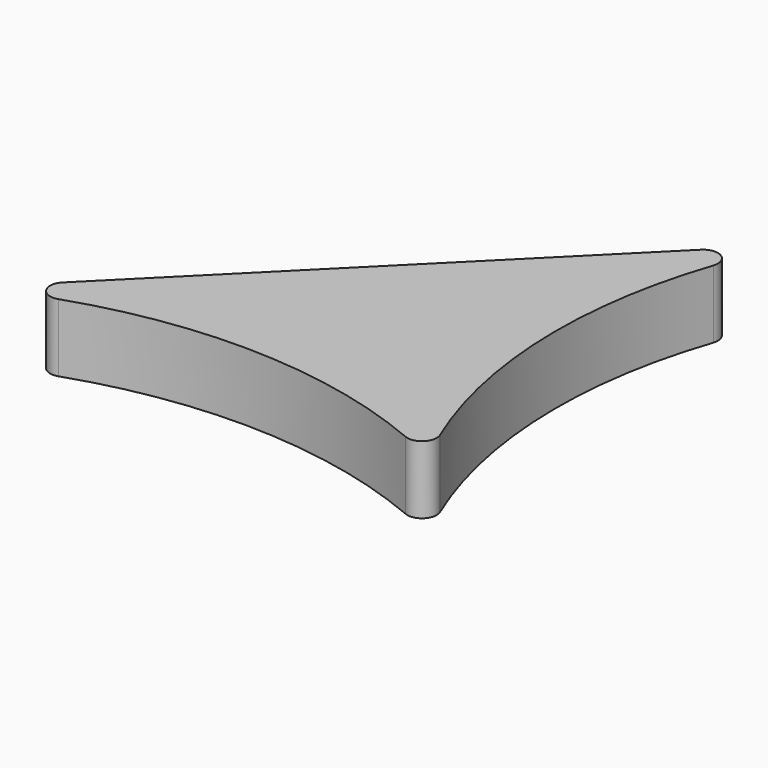
from build123d import *

# Parameters (mm, degrees)
F1_DEPTH = 5
F2_R     = 1.074979


with BuildPart() as f1:
    # F0 (on Top) → F1 (new body)
    with BuildSketch(Plane.XY):
        with BuildLine():
            Line((18.290205, 33.941125), (-15.65092, 0))
            ThreePointArc((-15.65092, 0), (1.319643, 4.121436), (18.290205, 0))
            ThreePointArc((18.290205, 0), (14.16877, 16.970563), (18.290205, 33.941125))
        make_face()
    extrude(amount=F1_DEPTH)

    # F2
    f2_edges = [f1.edges().sort_by_distance(p)[0] for p in [
        (18.290205, 33.941125, 2.5),
        (-15.65092, 0, 2.5),
        (18.290205, 0, 2.5),
    ]]
    fillet(f2_edges, radius=F2_R)


solid = f1.part
